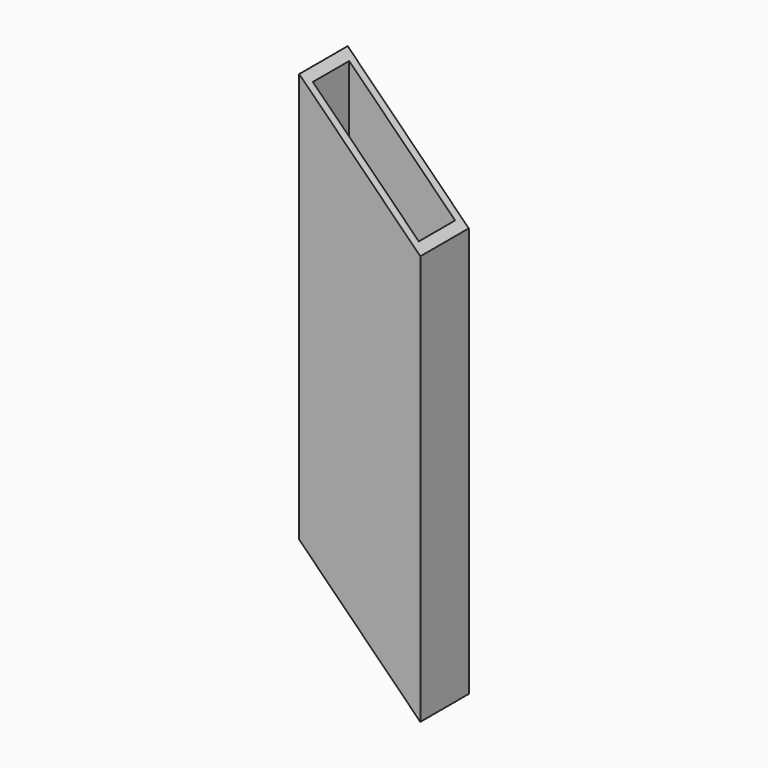
from build123d import *

# Parameters (mm, degrees)
F0_W     = 50.8
F0_H     = 25.4
F0_W_2   = 44.45
F0_H_2   = 19.05
F1_DEPTH = 222.77578
F3_DEPTH = 25.4


with BuildPart() as f1:
    # F0 (on Top) → F1 (new body)
    with BuildSketch(Plane.XY):
        with Locations((-25.4, 12.7)):
            Rectangle(F0_W, F0_H)
        with Locations((-25.4, 12.7)):
            Rectangle(F0_W_2, F0_H_2, mode=Mode.SUBTRACT)
    extrude(amount=F1_DEPTH)

    # F2 (on face) → F3 (cut)
    with BuildSketch(Plane.XZ):
        Polygon((-50.8, 0), (0, 0), (-50.8, 50.8), align=None)
        Polygon((-50.8, 222.77578), (0, 171.97578), (0, 222.77578), align=None)
    extrude(amount=-F3_DEPTH, mode=Mode.SUBTRACT)


solid = f1.part
